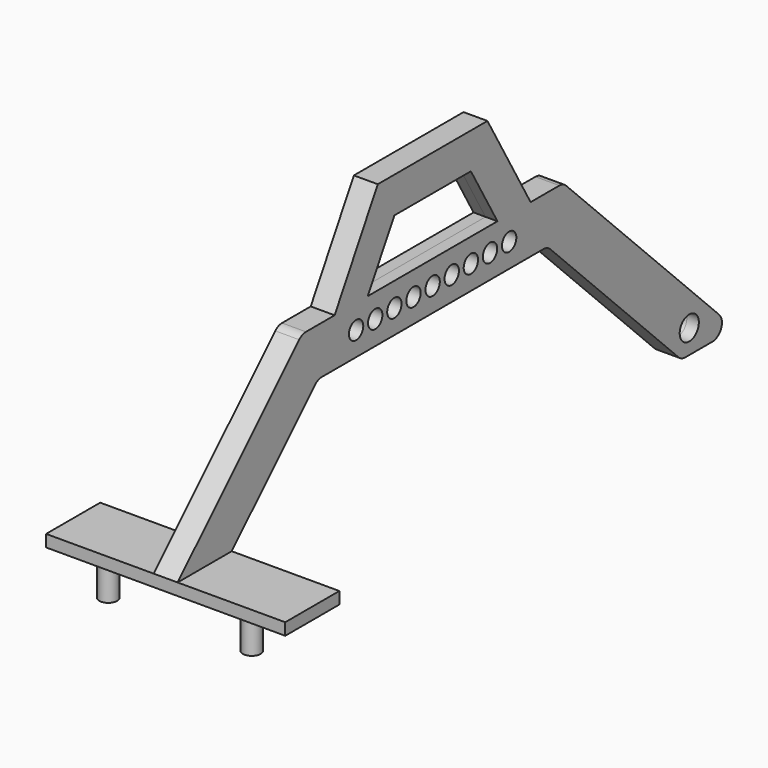
from build123d import *

# Parameters (mm, degrees)
F0_R          = 12.7
F0_R_2        = 9.525
F1_DEPTH      = 12.7
F1_DEPTH_BACK = 12.7
F2_W          = 254
F2_H          = 71.842049
F3_DEPTH      = 12.7
F4_R          = 9.525
F5_DEPTH      = 38.1


with BuildPart() as f1:
    # F0 (on Right) → F1 (new body, two sides)
    with BuildSketch(Plane.YZ) as f1_sk:
        with BuildLine():
            Line((-71.842049, 0), (0, 0))
            Line((0, 0), (110.580256, 110.580256))
            ThreePointArc((110.580256, 110.580256), (114.700433, 113.33327), (119.560512, 114.3))
            Line((119.560512, 114.3), (413.839488, 114.3))
            ThreePointArc((413.839488, 114.3), (418.699567, 113.33327), (422.819744, 110.580256))
            Line((422.819744, 110.580256), (593.180256, -59.780256))
            ThreePointArc((593.180256, -59.780256), (597.300433, -62.53327), (602.160512, -63.5))
            Line((602.160512, -63.5), (638.081537, -63.5))
            ThreePointArc((638.081537, -63.5), (649.814807, -55.66008), (647.061793, -41.819744))
            Line((647.061793, -41.819744), (443.861793, 161.380256))
            ThreePointArc((443.861793, 161.380256), (439.741616, 164.13327), (434.881537, 165.1))
            Line((434.881537, 165.1), (396.781537, 165.1))
            Line((396.781537, 165.1), (339.497045, 264.31965))
            Line((339.497045, 264.31965), (193.902955, 264.31965))
            Line((193.902955, 264.31965), (136.618463, 165.1))
            Line((136.618463, 165.1), (98.518463, 165.1))
            ThreePointArc((98.518463, 165.1), (93.658384, 164.13327), (89.538207, 161.380256))
            Line((89.538207, 161.380256), (-71.842049, 0))
        make_face()
        with Locations((607.421024, -38.1)):
            Circle(F0_R, mode=Mode.SUBTRACT)
        with Locations((165.1, 139.7)):
            Circle(F0_R_2, mode=Mode.SUBTRACT)
        with Locations((190.5, 139.7)):
            Circle(F0_R_2, mode=Mode.SUBTRACT)
        with Locations((215.9, 139.7)):
            Circle(F0_R_2, mode=Mode.SUBTRACT)
        with Locations((241.3, 139.7)):
            Circle(F0_R_2, mode=Mode.SUBTRACT)
        with Locations((266.7, 139.7)):
            Circle(F0_R_2, mode=Mode.SUBTRACT)
        Polygon((352.787446, 165.1), (180.612554, 165.1), (215.9, 226.21965), (317.5, 226.21965), align=None, mode=Mode.SUBTRACT)
        with Locations((292.1, 139.7)):
            Circle(F0_R_2, mode=Mode.SUBTRACT)
        with Locations((317.5, 139.7)):
            Circle(F0_R_2, mode=Mode.SUBTRACT)
        with Locations((342.9, 139.7)):
            Circle(F0_R_2, mode=Mode.SUBTRACT)
        with Locations((368.3, 139.7)):
            Circle(F0_R_2, mode=Mode.SUBTRACT)
    extrude(amount=F1_DEPTH)
    extrude(f1_sk.sketch, amount=-F1_DEPTH_BACK)

    # F2 (on Top) → F3 (join)
    with BuildSketch(Plane.XY):
        with Locations((0, -35.921025)):
            Rectangle(F2_W, F2_H)
    extrude(amount=-F3_DEPTH)

    # F4 (on face) → F5 (join)
    with BuildSketch(Plane(origin=(0, 0, -12.7), x_dir=(1, 0, 0), z_dir=(0, 0, -1))):
        with Locations((76.2, 52.792049)):
            Circle(F4_R)
        with Locations((-76.2, 52.792049)):
            Circle(F4_R)
    extrude(amount=F5_DEPTH)


solid = f1.part
